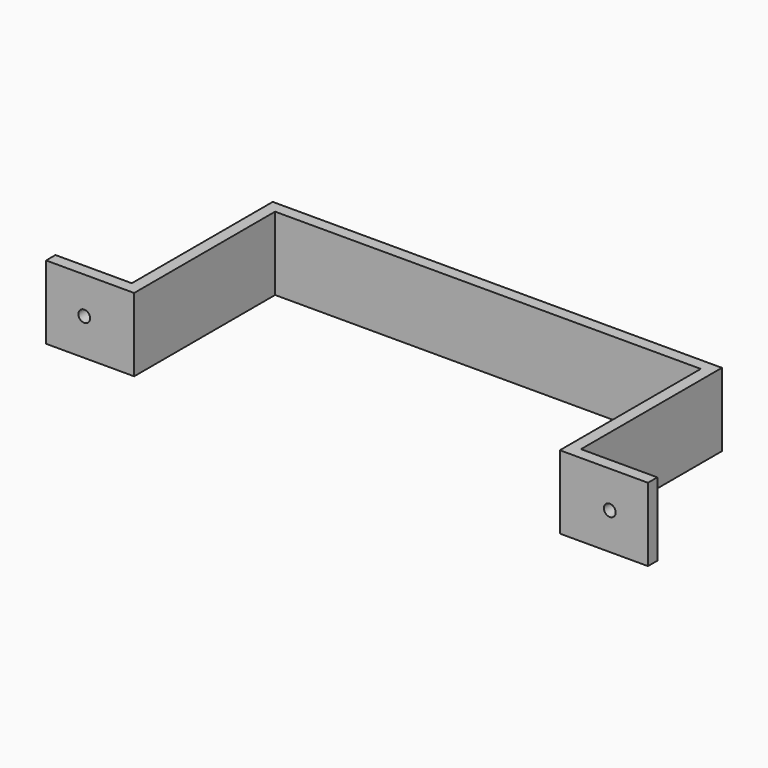
from build123d import *

# Parameters (mm, degrees)
F1_DEPTH = 31.75
F3_D     = 5.08
F5_D     = 5.08


with BuildPart() as f1:
    # F0 (on Top) → F1 (new body)
    with BuildSketch(Plane.XY):
        Polygon((-81.060801, -28.900409), (-81.060801, 47.299591), (103.089199, 47.299591), (103.089199, -28.900409), (141.189199, -28.900409), (141.189199, -23.820409), (108.169199, -23.820409), (108.169199, 52.379591), (-86.140801, 52.379591), (-86.140801, -23.820409), (-119.160801, -23.820409), (-119.160801, -28.900409), align=None)
    extrude(amount=F1_DEPTH)

    # F3 (through all)
    with Locations(Plane(origin=(0, -23.820409, 0), x_dir=(-1, 0, 0), z_dir=(0, 1, 0))):
        with Locations((102.650801, 15.875)):
            Hole(F3_D / 2)

    # F5 (through all)
    with Locations(Plane(origin=(0, -23.820409, 0), x_dir=(-1, 0, 0), z_dir=(0, 1, 0))):
        with Locations((-124.679199, 15.875)):
            Hole(F5_D / 2)


solid = f1.part
